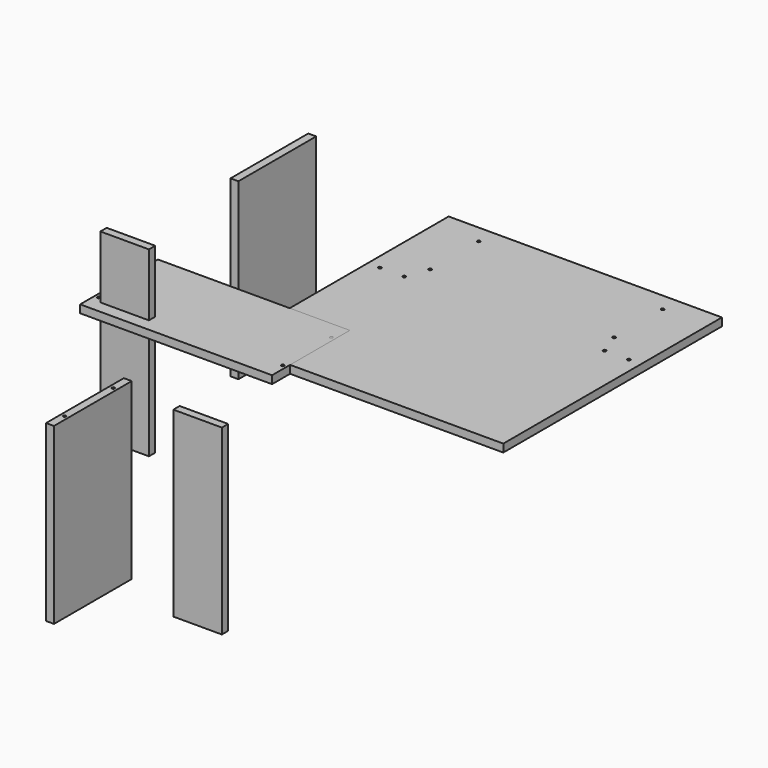
from build123d import *

# Parameters (mm, degrees)
F0_W            = 450
F0_H            = 450
F6_DEPTH        = 13
F1_W            = 80
F1_H            = 300
F7_DEPTH        = 13
F2_W            = 80
F2_H            = 300
F8_DEPTH        = 13
F3_W            = 160
F3_H            = 287
F9_DEPTH        = 13
F4_W            = 160
F4_H            = 287
F10_DEPTH       = 13
F5_W            = 316
F5_H            = 160
F11_DEPTH       = 13
F17_D           = 5
F17_CSINK_D     = 11.2
F17_CSINK_ANGLE = 90
F18_D           = 4.4
F18_DEPTH       = 30
F18_TIP         = 1.3218933619
F19_D           = 4.4
F19_DEPTH       = 30
F19_TIP         = 1.3218933619
F20_D           = 4.4
F20_DEPTH       = 30
F20_TIP         = 1.3218933619
F21_D           = 4.4
F21_DEPTH       = 30
F21_TIP         = 1.3218933619
F23_D           = 4.4
F23_DEPTH       = 30
F23_TIP         = 1.3218933619
F24_D           = 5


with BuildPart() as f6:
    # F0 (on Top) → F6 (new body)
    with BuildSketch(Plane.XY):
        with Locations((338.5985419154, 228.6579591743)):
            Rectangle(F0_W, F0_H)
    extrude(amount=F6_DEPTH)

    # F17 (through all)
    with Locations(Plane(origin=(0, 0, 0), x_dir=(1, 0, 0), z_dir=(0, 0, -1))):
        with Locations((187.0985419154, -423.6579591743), (187.0985419154, -323.6579591743), (173.5985419154, -287.1579591743), (133.5985419154, -287.1579591743), (490.0985419154, -423.6579591743), (490.0985419154, -323.6579591743), (503.5985419154, -287.1579591743), (543.5985419154, -287.1579591743)):
            CounterSinkHole(F17_D / 2, F17_CSINK_D / 2, counter_sink_angle=F17_CSINK_ANGLE)


with BuildPart() as f7:
    # F1 (on Front) → F7 (new body)
    with BuildSketch(Plane.XZ):
        with Locations((-46.5769142039, -34.1215565801)):
            Rectangle(F1_W, F1_H)
    extrude(amount=F7_DEPTH)

    # F18
    with Locations(Plane(origin=(0, 0, -184.1215565801), x_dir=(1, 0, 0), z_dir=(0, 0, -1))):
        with Locations((-66.5769142039, 6.5), (-26.5769142039, 6.5)):
            Hole(F18_D / 2, depth=F18_DEPTH)
            with Locations((0, 0, -(F18_DEPTH + F18_TIP / 2))):  # 118° drill point
                Cone(0, F18_D / 2, F18_TIP, mode=Mode.SUBTRACT)


with BuildPart() as f8:
    # F2 (on Front) → F8 (new body)
    with BuildSketch(Plane.XZ):
        with Locations((73.5342111439, -253.3472559649)):
            Rectangle(F2_W, F2_H)
    extrude(amount=F8_DEPTH)

    # F19
    with Locations(Plane(origin=(0, 0, -403.3472559649), x_dir=(1, 0, 0), z_dir=(0, 0, -1))):
        with Locations((53.5342111439, 6.5), (93.5342111439, 6.5)):
            Hole(F19_D / 2, depth=F19_DEPTH)
            with Locations((0, 0, -(F19_DEPTH + F19_TIP / 2))):  # 118° drill point
                Cone(0, F19_D / 2, F19_TIP, mode=Mode.SUBTRACT)


with BuildPart() as f9:
    # F3 (on Right) → F9 (new body)
    with BuildSketch(Plane.YZ):
        with Locations((-152.893594844, -187.8059728593)):
            Rectangle(F3_W, F3_H)
    extrude(amount=F9_DEPTH)

    # F20
    with Locations(Plane(origin=(0, 0, -331.3059728593), x_dir=(1, 0, 0), z_dir=(0, 0, -1))):
        with Locations((6.5, 202.893594844), (6.5, 102.893594844)):
            Hole(F20_D / 2, depth=F20_DEPTH)
            with Locations((0, 0, -(F20_DEPTH + F20_TIP / 2))):  # 118° drill point
                Cone(0, F20_D / 2, F20_TIP, mode=Mode.SUBTRACT)

    # F23
    with Locations(Plane.XY.offset(-44.3059728593)):
        with Locations((6.5, -102.893594844), (6.5, -202.893594844)):
            Hole(F23_D / 2, depth=F23_DEPTH)
            with Locations((0, 0, -(F23_DEPTH + F23_TIP / 2))):  # 118° drill point
                Cone(0, F23_D / 2, F23_TIP, mode=Mode.SUBTRACT)


with BuildPart() as f10:
    # F4 (on Right) → F10 (new body)
    with BuildSketch(Plane.YZ):
        with Locations((226.7641051293, 12.5522968769)):
            Rectangle(F4_W, F4_H)
    extrude(amount=F10_DEPTH)

    # F21
    with Locations(Plane(origin=(0, 0, -130.9477031231), x_dir=(1, 0, 0), z_dir=(0, 0, -1))):
        with Locations((6.5, -176.7641051293), (6.5, -276.7641051293)):
            Hole(F21_D / 2, depth=F21_DEPTH)
            with Locations((0, 0, -(F21_DEPTH + F21_TIP / 2))):  # 118° drill point
                Cone(0, F21_D / 2, F21_TIP, mode=Mode.SUBTRACT)


with BuildPart() as f11:
    # F5 (on Top) → F11 (new body)
    with BuildSketch(Plane.XY):
        with Locations((54.5210540295, 46.5835733128)):
            Rectangle(F5_W, F5_H)
    extrude(amount=F11_DEPTH)

    # F24 (through all)
    with Locations(Plane(origin=(0, 0, 0), x_dir=(1, 0, 0), z_dir=(0, 0, -1))):
        with Locations((-96.9789459705, 3.4164266872), (-96.9789459705, -96.5835733128), (206.0210540295, -96.5835733128), (206.0210540295, 3.4164266872)):
            Hole(F24_D / 2)


solid = Compound([f6.part, f7.part, f8.part, f9.part, f10.part, f11.part])
